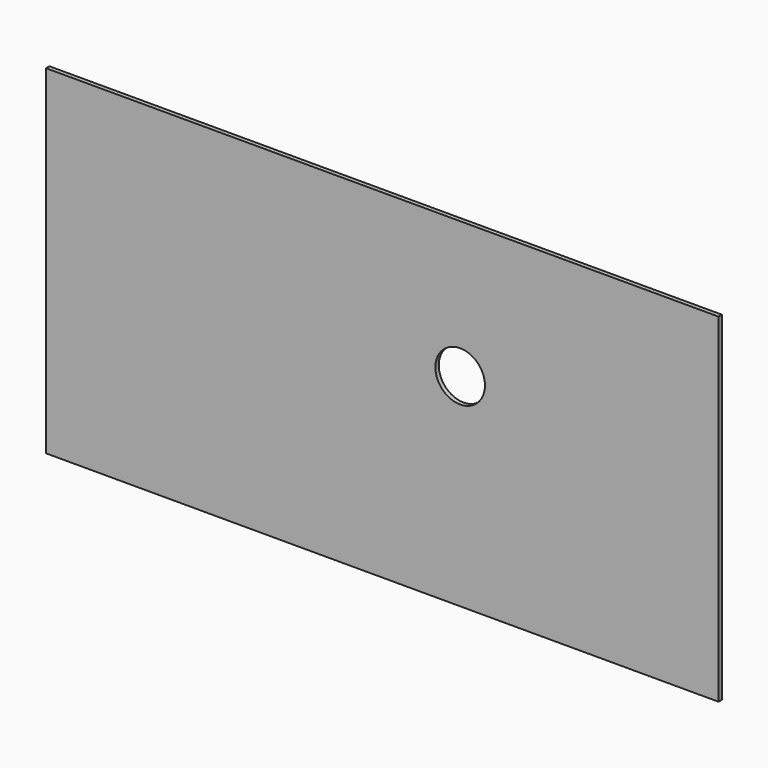
from build123d import *

# Parameters (mm, degrees)
F0_W     = 950
F0_H     = 479
F1_DEPTH = 6
F2_R     = 35
F3_DEPTH = 6


with BuildPart() as f1:
    # F0 (on Front) → F1 (new body)
    with BuildSketch(Plane.XZ):
        with Locations((475, 239.5)):
            Rectangle(F0_W, F0_H)
    extrude(amount=F1_DEPTH)

    # F2 (on Front) → F3 (cut, through all)
    with BuildSketch(Plane.XZ):
        with Locations((585, 286)):
            Circle(F2_R)
    extrude(amount=F3_DEPTH, mode=Mode.SUBTRACT)


solid = f1.part
